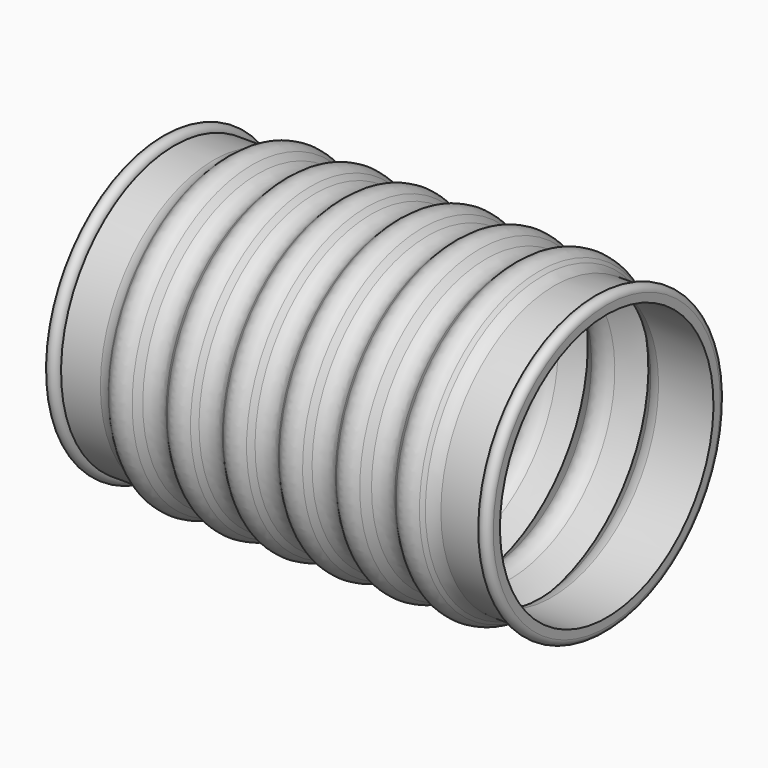
from build123d import *

# Parameters (mm, degrees)
F3_R = 5
F4_R = 5
F5_R = 5


with BuildPart() as f2:
    # F0 (on Front) → F2 (revolve)
    with BuildSketch(Plane.XZ):
        with BuildLine():
            Line((-53.2335965667, 43), (-53.2335965667, 40.5))
            Line((-53.2335965667, 40.5), (-34.1980626608, 40.5))
            Line((-34.1980626608, 40.5), (-33.4658296138, 41.232233047))
            Line((-33.4658296138, 41.232233047), (-29.2335965667, 45.4644660941))
            Line((-29.2335965667, 45.4644660941), (-20.3676095215, 36.5984790489))
            Line((-20.3676095215, 36.5984790489), (-15.2052405028, 41.7608480677))
            Line((-15.2052405028, 41.7608480677), (-11.5016224763, 45.4644660941))
            Line((-11.5016224763, 45.4644660941), (-2.6909963444, 36.9300402453))
            Line((-2.6909963444, 36.9300402453), (5.8090036556, 45.4300402453))
            Line((5.8090036556, 45.4300402453), (14.3090036556, 36.9300402453))
            Line((14.3090036556, 36.9300402453), (22.8090036556, 45.4300402453))
            Line((22.8090036556, 45.4300402453), (31.3090036556, 36.9300402453))
            Line((31.3090036556, 36.9300402453), (39.8434295044, 45.4644660941))
            Line((39.8434295044, 45.4644660941), (49.0754035947, 36.2324920037))
            Line((49.0754035947, 36.2324920037), (58.2729518363, 45.4300402453))
            Line((58.2729518363, 45.4300402453), (63.2029920816, 40.5))
            Line((63.2029920816, 40.5), (81.9623257044, 40.5))
            Line((81.9623257044, 40.5), (81.9623257044, 43))
            Line((81.9623257044, 43), (81.9623257044, 43.0541336536))
            ThreePointArc((81.9623257044, 43.0541336536), (79.9352588776, 45.0270668268), (77.9623257044, 43))
            Line((77.9623257044, 43), (63.9623257044, 43))
            Line((63.9623257044, 43), (57.9623257044, 49))
            Line((57.9623257044, 49), (48.9028776044, 39.9405519))
            Line((48.9028776044, 39.9405519), (39.8434295044, 49))
            Line((39.8434295044, 49), (31.170903514, 40.3274740096))
            Line((31.170903514, 40.3274740096), (22.4983775237, 49))
            Line((22.4983775237, 49), (13.9983775237, 40.5))
            Line((13.9983775237, 40.5), (5.4983775237, 49))
            Line((5.4983775237, 49), (-3.0016224763, 40.5))
            Line((-3.0016224763, 40.5), (-11.5016224763, 49))
            Line((-11.5016224763, 49), (-16.9730074557, 43.5286150206))
            Line((-16.9730074557, 43.5286150206), (-20.3676095215, 40.1340129548))
            Line((-20.3676095215, 40.1340129548), (-27.8193830043, 47.5857864376))
            Line((-27.8193830043, 47.5857864376), (-29.2335965667, 49))
            Line((-29.2335965667, 49), (-35.2335965667, 43))
            Line((-35.2335965667, 43), (-49.2335965667, 43))
            ThreePointArc((-49.2335965667, 43), (-51.2335965667, 45), (-53.2335965667, 43))
        make_face()
    revolve(axis=Axis((12.2634842992, 0, 0), (1, 0, 0)))

    # F3
    f3_edges = [f2.edges().sort_by_distance(p)[0] for p in [
        (-35.233597, 0, -43),
        (-29.233597, 0, -49),
        (-20.36761, 0, -40.134013),
        (-11.501622, 0, -49),
        (-3.001622, 0, -40.5),
        (5.498378, 0, -49),
        (13.998378, 0, -40.5),
        (22.498378, 0, -49),
        (31.170904, 0, -40.327474),
        (39.84343, 0, -49),
        (48.902878, 0, -39.940552),
        (57.962326, 0, -49),
        (63.962326, 0, -43),
    ]]
    fillet(f3_edges, radius=F3_R)

    # F4
    f4_edges = [f2.edges().sort_by_distance(p)[0] for p in [
        (-34.198063, 0, -40.5),
    ]]
    fillet(f4_edges, radius=F4_R)

    # F5
    f5_edges = [f2.edges().sort_by_distance(p)[0] for p in [
        (-36.26913, 0, -40.5),
        (-20.36761, 0, -36.598479),
        (-2.690996, 0, -36.93004),
        (14.309004, 0, -36.93004),
        (31.309004, 0, -36.93004),
        (49.075404, 0, -36.232492),
        (63.202992, 0, -40.5),
    ]]
    fillet(f5_edges, radius=F5_R)


solid = f2.part
